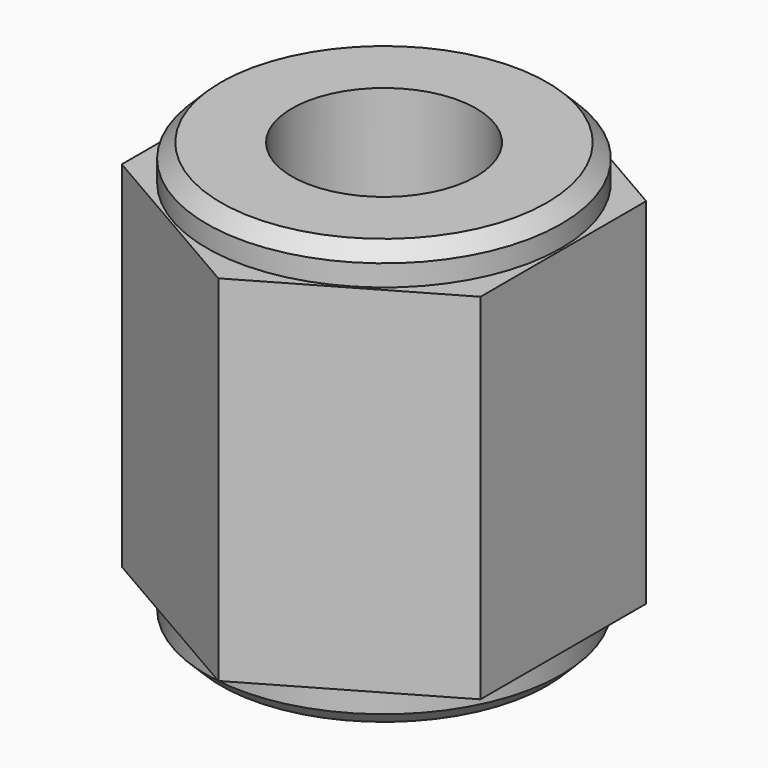
from build123d import *

# Parameters (mm, degrees)
SKETCH003_R     = 2.5
SKETCH003_R_2   = 1.3
PAD003_DEPTH    = 6
SKETCH004_R     = 1.3
PAD004_DEPTH    = 5
CHAMFER001_SIZE = 0.2


with BuildPart() as part:
    # Sketch003 → Pad003 (new body)
    with BuildSketch(Plane.XY):
        Circle(SKETCH003_R)
        Circle(SKETCH003_R_2, mode=Mode.SUBTRACT)
    extrude(amount=PAD003_DEPTH)

    # Sketch004 → Pad004 (join)
    with BuildSketch(Plane.XY.offset(0.5)):
        Polygon((2.53, -1.460696), (2.53, 1.460696), (0, 2.921392), (-2.53, 1.460696), (-2.53, -1.460696), (0, -2.921392), align=None)
        Circle(SKETCH004_R, mode=Mode.SUBTRACT)
    extrude(amount=PAD004_DEPTH)

    # Chamfer001
    chamfer001_edges = [part.edges().sort_by_distance(p)[0] for p in [
        (-2.5, 0, 6),
        (-2.5, 0, 0),
    ]]
    chamfer(chamfer001_edges, length=CHAMFER001_SIZE)


with BuildPart() as part_1:
    # Body002 placement: moved
    add(part.part.moved(Location((49.5, 0, 0))))


solid = part_1.part
